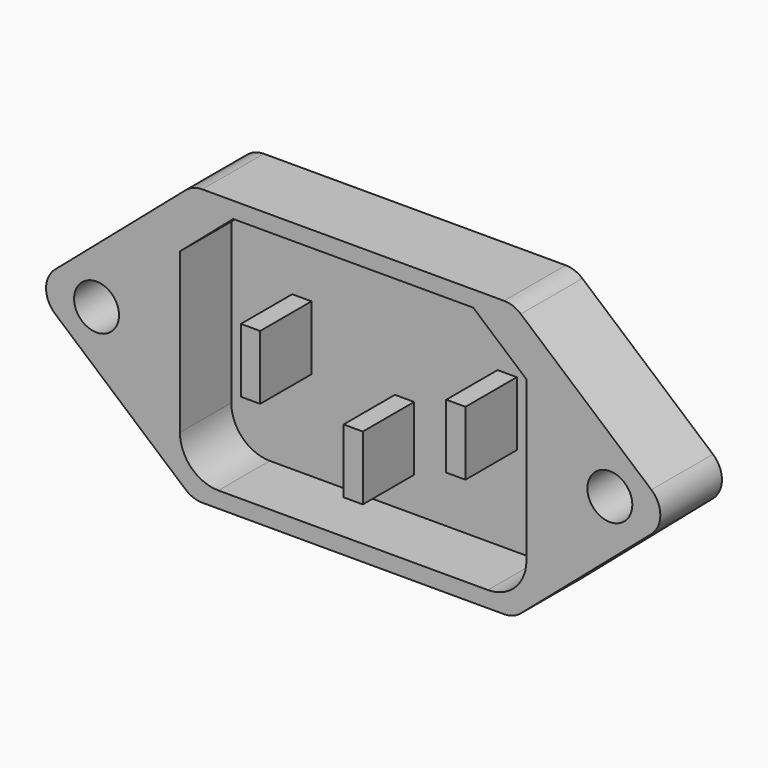
from build123d import *

# Parameters (mm, degrees)
F0_R     = 1.75
F1_DEPTH = 6
F3_DEPTH = 5
F4_W     = 1.5
F4_H     = 5
F5_DEPTH = 5


with BuildPart() as f1:
    # F0 (on Front) → F1 (new body)
    with BuildSketch(Plane.XZ):
        with BuildLine():
            Line((23.236779, 1.51637), (13.06236, 10.26637))
            ThreePointArc((13.06236, 10.26637), (12.453716, 10.625199), (11.758281, 10.75))
            Line((11.758281, 10.75), (0, 10.75))
            Line((0, 10.75), (-11.758281, 10.75))
            ThreePointArc((-11.758281, 10.75), (-12.453716, 10.625199), (-13.06236, 10.26637))
            Line((-13.06236, 10.26637), (-23.236779, 1.51637))
            ThreePointArc((-23.236779, 1.51637), (-23.9327, 0), (-23.236779, -1.51637))
            Line((-23.236779, -1.51637), (-13.06236, -10.26637))
            ThreePointArc((-13.06236, -10.26637), (-12.453716, -10.625199), (-11.758281, -10.75))
            Line((-11.758281, -10.75), (0, -10.75))
            Line((0, -10.75), (11.758281, -10.75))
            ThreePointArc((11.758281, -10.75), (12.453716, -10.625199), (13.06236, -10.26637))
            Line((13.06236, -10.26637), (23.236779, -1.51637))
            ThreePointArc((23.236779, -1.51637), (23.9327, 0), (23.236779, 1.51637))
        make_face()
        with Locations((-20, 0)):
            Circle(F0_R, mode=Mode.SUBTRACT)
        with Locations((20, 0)):
            Circle(F0_R, mode=Mode.SUBTRACT)
    extrude(amount=F1_DEPTH)

    # F2 (on face) → F3 (cut)
    with BuildSketch(Plane.XZ.offset(6)):
        with BuildLine():
            Line((-13.5, 5.933183), (-13.5, -6.5))
            ThreePointArc((-13.5, -6.5), (-12.62132, -8.62132), (-10.5, -9.5))
            Line((-10.5, -9.5), (10.5, -9.5))
            ThreePointArc((10.5, -9.5), (12.62132, -8.62132), (13.5, -6.5))
            Line((13.5, -6.5), (13.5, 5.933183))
            Line((13.5, 5.933183), (9.352538, 9.5))
            Line((9.352538, 9.5), (-9.352538, 9.5))
            Line((-9.352538, 9.5), (-13.5, 5.933183))
        make_face()
    extrude(amount=-F3_DEPTH, mode=Mode.SUBTRACT)

    # F4 (on face) → F5 (join)
    with BuildSketch(Plane.XZ.offset(1)):
        with Locations((0, -4.298508)):
            Rectangle(F4_W, F4_H)
        with Locations((-8, 0)):
            Rectangle(F4_W, F4_H)
        with Locations((8, 0)):
            Rectangle(F4_W, F4_H)
    extrude(amount=F5_DEPTH)


solid = f1.part
